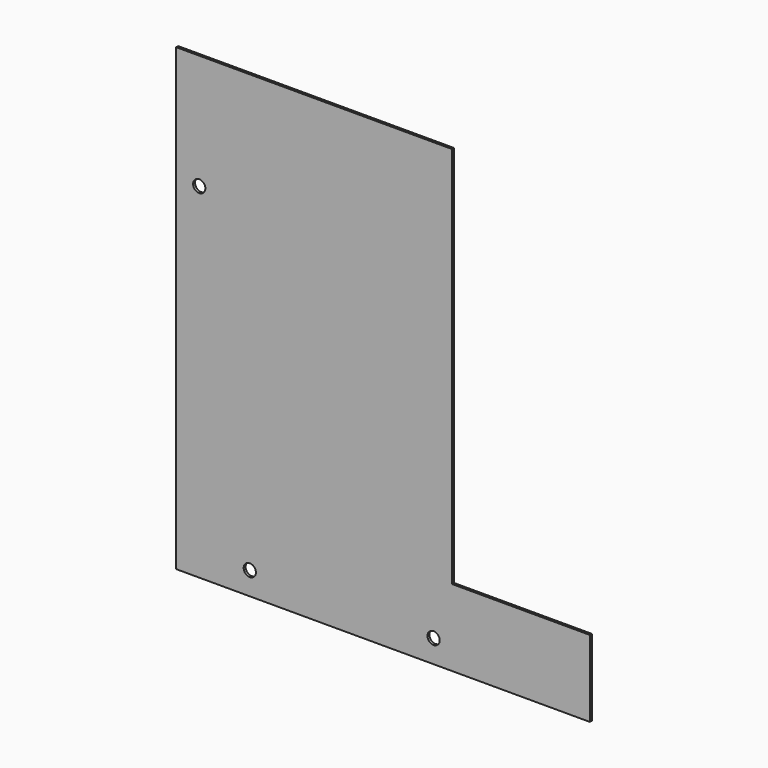
from build123d import *

# Parameters (mm, degrees)
F1_DEPTH = 1.6
F2_D     = 8


with BuildPart() as f1:
    # F0 (on Front) → F1 (new body)
    with BuildSketch(Plane.XZ):
        Polygon((180, 0), (0, 0), (0, -300), (270, -300), (270, -250), (180, -250), align=None)
    extrude(amount=F1_DEPTH)

    # F2 (through all)
    with Locations(Plane(origin=(0, 0, 0), x_dir=(1, 0, 0), z_dir=(0, 1, 0))):
        with Locations((15, 75), (48, 285), (168, 285)):
            Hole(F2_D / 2)


solid = f1.part
